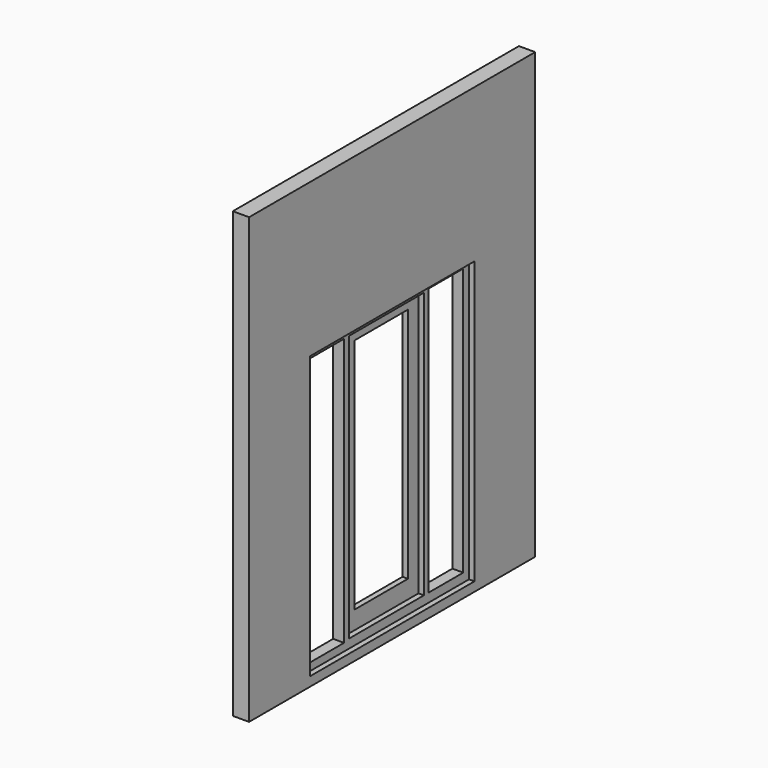
from build123d import *

# Parameters (mm, degrees)
F0_W     = 3300
F0_H     = 4100
F0_W_2   = 1900
F0_H_2   = 2600
F1_DEPTH = 150
F0_W_3   = 400
F0_H_3   = 2469.911873
F0_W_4   = 864.378304
F0_H_4   = 2458.624956
F0_H_5   = 2469.911874
F2_DEPTH = 100
F0_W_5   = 614.763677
F0_H_6   = 2186.903954
F3_DEPTH = 50


with BuildPart() as f1:
    # F0 (on Right) → F1 (new body)
    with BuildSketch(Plane.YZ):
        with Locations((2.16179, 72.170403)):
            Rectangle(F0_W, F0_H)
        with Locations((2.16179, -592.627478)):
            Rectangle(F0_W_2, F0_H_2, mode=Mode.SUBTRACT)
    extrude(amount=F1_DEPTH)


with BuildPart() as f2:
    # F0 (on Right) → F2 (new body)
    with BuildSketch(Plane.YZ):
        with Locations((2.16179, -592.627478)):
            Rectangle(F0_W_2, F0_H_2)
        with Locations((-690.299976, -587.317913)):
            Rectangle(F0_W_3, F0_H_3, mode=Mode.SUBTRACT)
        with Locations((-0.99577, -581.674455)):
            Rectangle(F0_W_4, F0_H_4, mode=Mode.SUBTRACT)
        with Locations((685.029149, -576.030996)):
            Rectangle(F0_W_3, F0_H_5, mode=Mode.SUBTRACT)
    extrude(amount=F2_DEPTH)


with BuildPart() as f3:
    # F0 (on Right) → F3 (new body)
    with BuildSketch(Plane.YZ):
        with Locations((-0.99577, -581.674455)):
            Rectangle(F0_W_4, F0_H_4)
        with Locations((2.548904, -549.81339)):
            Rectangle(F0_W_5, F0_H_6, mode=Mode.SUBTRACT)
    extrude(amount=F3_DEPTH)


solid = Compound([f1.part, f2.part, f3.part])
